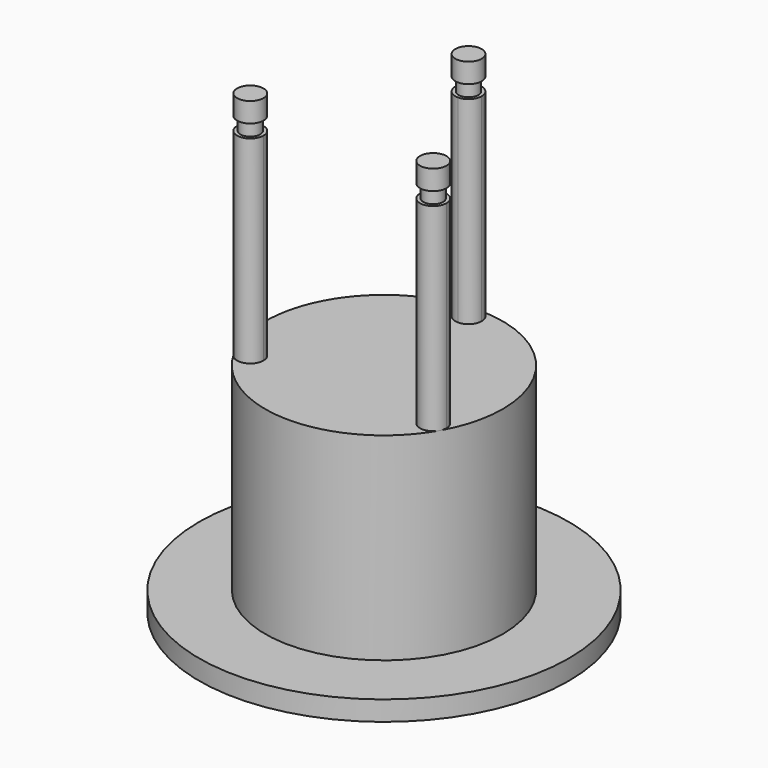
from build123d import *

# Parameters (mm, degrees)
F0_W      = 10
F0_H      = 3
F3_DEPTH  = 30
F4_R      = 1.5
F5_DEPTH  = 2
F6_R      = 2
F7_DEPTH  = 3
F8_R      = 1.5
F9_DEPTH  = 2
F10_R     = 2
F11_DEPTH = 3
F12_R     = 1.5
F13_DEPTH = 2
F14_R     = 2
F15_DEPTH = 3


with BuildPart() as f1:
    # F0 (on Front) → F1 (revolve)
    with BuildSketch(Plane.XZ):
        Polygon((18, -30), (18, -3), (15.029126, -3), (15.029126, -33), (18, -33), align=None)
        Polygon((15.029126, -3), (18, -3), (18, 0), (0, 0), (0, -3), align=None)
        with Locations((23, -31.5)):
            Rectangle(F0_W, F0_H)
    revolve(axis=Axis((0, 0, -1.5), (0, 0, 1)))

    # F2 (on face) → F3 (join)
    with BuildSketch(Plane.XY):
        with BuildLine():
            ThreePointArc((0, 14), (1.414214, 14.585786), (2, 16))
            ThreePointArc((2, 16), (-1.414214, 17.414214), (0, 14))
        make_face()
        with BuildLine():
            ThreePointArc((15.856406, -8), (14.374045, -6.068148), (12.124356, -7))
            ThreePointArc((12.124356, -7), (13.338768, -9.931852), (15.856406, -8))
        make_face()
        with BuildLine():
            ThreePointArc((-11.856406, -8), (-11.924555, -7.482362), (-12.124356, -7))
            ThreePointArc((-12.124356, -7), (-15.788258, -8.517638), (-11.856406, -8))
        make_face()
    extrude(amount=F3_DEPTH)

    # F4 (on face) → F5 (join)
    with BuildSketch(Plane.XY.offset(30)):
        with Locations((13.856406, -8)):
            Circle(F4_R)
    extrude(amount=F5_DEPTH)

    # F6 (on face) → F7 (join)
    with BuildSketch(Plane.XY.offset(32)):
        with Locations((13.856406, -8)):
            Circle(F6_R)
    extrude(amount=F7_DEPTH)

    # F8 (on face) → F9 (join)
    with BuildSketch(Plane.XY.offset(30)):
        with Locations((0, 16)):
            Circle(F8_R)
    extrude(amount=F9_DEPTH)

    # F10 (on face) → F11 (join)
    with BuildSketch(Plane.XY.offset(32)):
        with Locations((0, 16)):
            Circle(F10_R)
    extrude(amount=F11_DEPTH)

    # F12 (on face) → F13 (join)
    with BuildSketch(Plane.XY.offset(30)):
        with Locations((-13.856406, -8)):
            Circle(F12_R)
    extrude(amount=F13_DEPTH)

    # F14 (on face) → F15 (join)
    with BuildSketch(Plane.XY.offset(32)):
        with Locations((-13.856406, -8)):
            Circle(F14_R)
    extrude(amount=F15_DEPTH)


solid = f1.part
